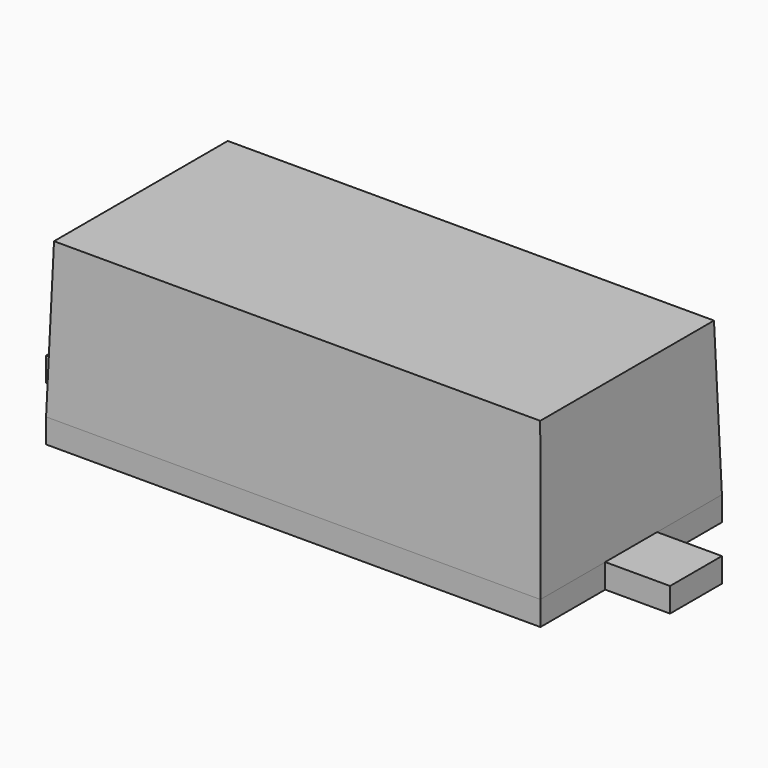
from build123d import *

# Parameters (mm, degrees)
F1_DEPTH = 15
F3_DEPTH = 35
F4_W     = 8
F4_H     = 8
F5_DEPTH = 3


with BuildPart() as f1:
    # F0 (on Front) → F1 (new body, symmetric)
    with BuildSketch(Plane.XZ):
        Polygon((30, 22), (-30, 22), (-30.5, 3), (-30.5, 0), (30.5, 0), (30.5, 3), align=None)
    extrude(amount=F1_DEPTH, both=True)

    # F2 (on Right) → F3 (intersect, symmetric)
    with BuildSketch(Plane.YZ):
        Polygon((-14, 3), (-14, 0), (14, 0), (14, 3), (13.4, 22), (-13.4, 22), align=None)
    extrude(amount=F3_DEPTH, both=True, mode=Mode.INTERSECT)

    # F4 (on face) → F5 (join)
    with BuildSketch(Plane(origin=(0, 0, 0), x_dir=(1, 0, 0), z_dir=(0, 0, -1))):
        with Locations((34.5, 0)):
            Rectangle(F4_W, F4_H)
    extrude(amount=-F5_DEPTH)

    # F6: F1 across plane


with BuildPart() as f1_1:
    add(f1.part)
    add(f1.part.mirror(Plane.YZ))


solid = f1_1.part
